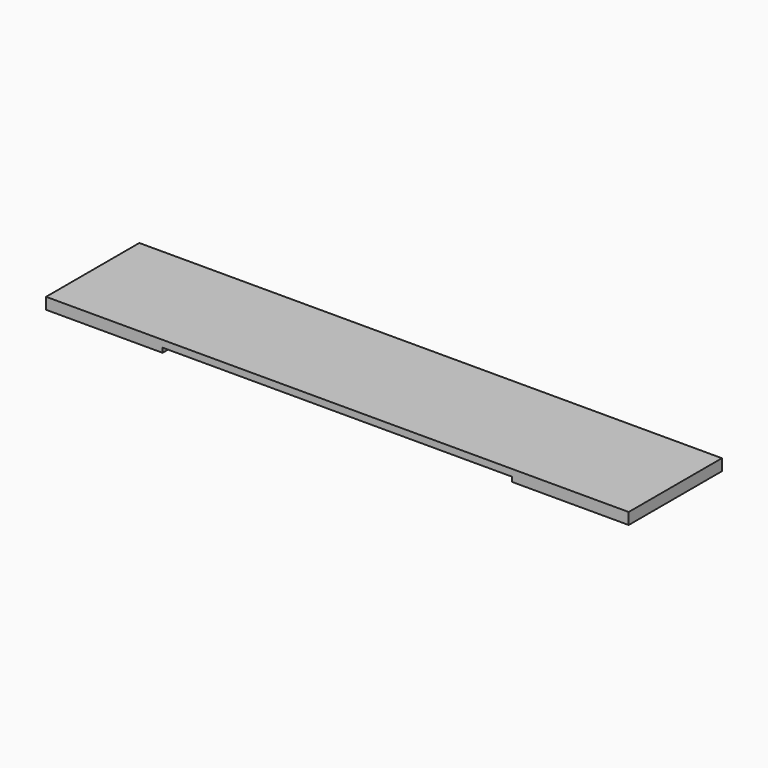
from build123d import *

# Parameters (mm, degrees)
F0_W     = 127
F0_H     = 25.4
F1_DEPTH = 1.5
F2_W     = 25.4
F2_H     = 25.4
F3_DEPTH = 1
F4_W     = 25.4
F4_H     = 25.4
F5_DEPTH = 1


with BuildPart() as f1:
    # F0 (on Top) → F1 (new body)
    with BuildSketch(Plane.XY):
        with Locations((63.5, 12.7)):
            Rectangle(F0_W, F0_H)
    extrude(amount=F1_DEPTH)

    # F2 (on face) → F3 (join)
    with BuildSketch(Plane(origin=(0, 0, 0), x_dir=(1, 0, 0), z_dir=(0, 0, -1))):
        with Locations((12.7, -12.7)):
            Rectangle(F2_W, F2_H)
    extrude(amount=F3_DEPTH)

    # F4 (on face) → F5 (join)
    with BuildSketch(Plane(origin=(0, 0, 0), x_dir=(1, 0, 0), z_dir=(0, 0, -1))):
        with Locations((114.3, -12.7)):
            Rectangle(F4_W, F4_H)
    extrude(amount=F5_DEPTH)


solid = f1.part
